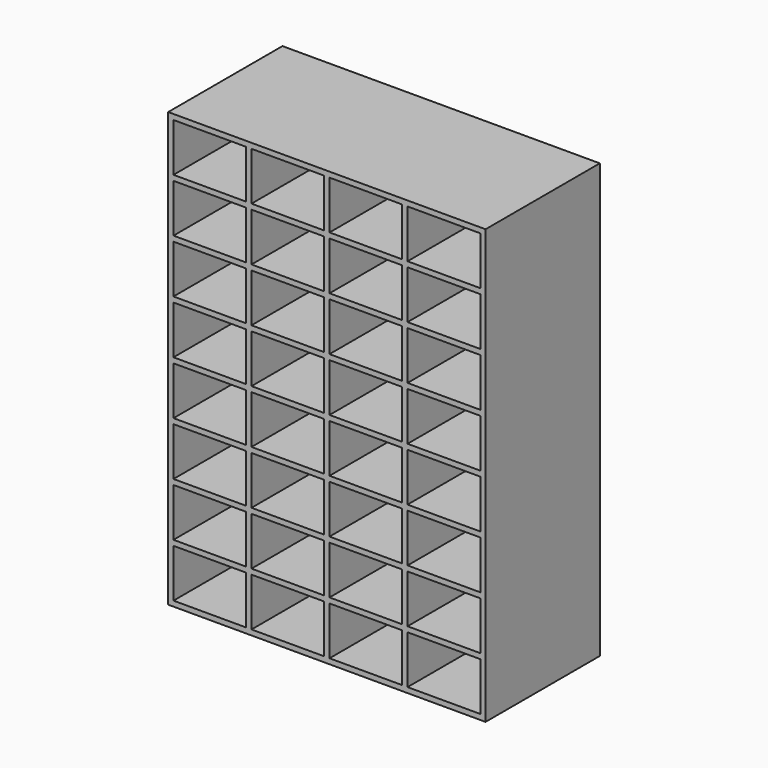
from build123d import *

# Parameters (mm, degrees)
F0_W     = 300
F0_H     = 135
F1_DEPTH = 410
F2_W     = 68.75
F2_H     = 45.625
F3_DEPTH = 125


with BuildPart() as f1:
    # F0 (on Top) → F1 (new body)
    with BuildSketch(Plane.XY):
        with Locations((150, 67.5)):
            Rectangle(F0_W, F0_H)
    extrude(amount=F1_DEPTH)

    # F2 (on face) → F3 (cut)
    with BuildSketch(Plane.XZ):
        with Locations((260.625, 230.3125)):
            Rectangle(F2_W, F2_H)
        with Locations((260.625, 280.9375)):
            Rectangle(F2_W, F2_H)
        with Locations((260.625, 331.5625)):
            Rectangle(F2_W, F2_H)
        with Locations((260.625, 382.1875)):
            Rectangle(F2_W, F2_H)
        with Locations((186.875, 382.1875)):
            Rectangle(F2_W, F2_H)
        with Locations((113.125, 382.1875)):
            Rectangle(F2_W, F2_H)
        with Locations((260.625, 179.6875)):
            Rectangle(F2_W, F2_H)
        with Locations((260.625, 129.0625)):
            Rectangle(F2_W, F2_H)
        with Locations((260.625, 78.4375)):
            Rectangle(F2_W, F2_H)
        with Locations((260.625, 27.8125)):
            Rectangle(F2_W, F2_H)
        with Locations((186.875, 27.8125)):
            Rectangle(F2_W, F2_H)
        with Locations((113.125, 27.8125)):
            Rectangle(F2_W, F2_H)
        with Locations((39.375, 27.8125)):
            Rectangle(F2_W, F2_H)
        with Locations((39.375, 78.4375)):
            Rectangle(F2_W, F2_H)
        with Locations((39.375, 129.0625)):
            Rectangle(F2_W, F2_H)
        with Locations((39.375, 179.6875)):
            Rectangle(F2_W, F2_H)
        with Locations((39.375, 230.3125)):
            Rectangle(F2_W, F2_H)
        with Locations((39.375, 280.9375)):
            Rectangle(F2_W, F2_H)
        with Locations((39.375, 331.5625)):
            Rectangle(F2_W, F2_H)
        with Locations((39.375, 382.1875)):
            Rectangle(F2_W, F2_H)
        with Locations((113.125, 331.5625)):
            Rectangle(F2_W, F2_H)
        with Locations((113.125, 280.9375)):
            Rectangle(F2_W, F2_H)
        with Locations((113.125, 230.3125)):
            Rectangle(F2_W, F2_H)
        with Locations((186.875, 331.5625)):
            Rectangle(F2_W, F2_H)
        with Locations((186.875, 280.9375)):
            Rectangle(F2_W, F2_H)
        with Locations((186.875, 230.3125)):
            Rectangle(F2_W, F2_H)
        with Locations((186.875, 78.4375)):
            Rectangle(F2_W, F2_H)
        with Locations((113.125, 78.4375)):
            Rectangle(F2_W, F2_H)
        with Locations((113.125, 129.0625)):
            Rectangle(F2_W, F2_H)
        with Locations((186.875, 129.0625)):
            Rectangle(F2_W, F2_H)
        with Locations((113.125, 179.6875)):
            Rectangle(F2_W, F2_H)
        with Locations((186.875, 179.6875)):
            Rectangle(F2_W, F2_H)
    extrude(amount=-F3_DEPTH, mode=Mode.SUBTRACT)


solid = f1.part
